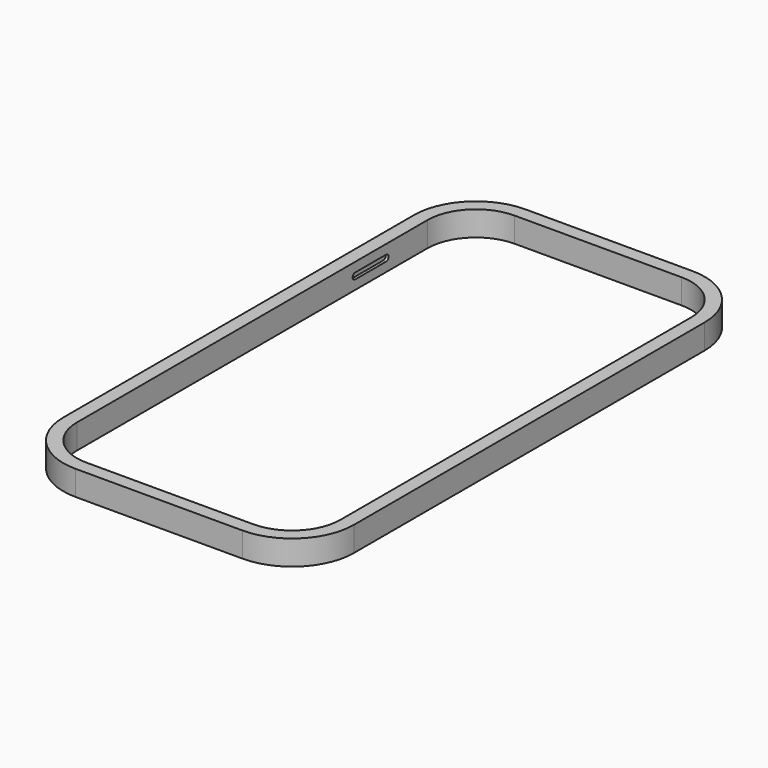
from build123d import *

# Parameters (mm, degrees)
F1_DEPTH = 7.33
F4_DEPTH = 2.55
F5_R     = 0.5
F6_DEPTH = 5
F7_DEPTH = 3.14


with BuildPart() as f1:
    # F0 (on Top) → F1 (new body)
    with BuildSketch(Plane.XY):
        with BuildLine():
            Line((-42.9700019847, 64.81), (-42.9700019847, 43.63))
            Line((-42.9700019847, 43.63), (-42.9700019847, -64.81))
            ThreePointArc((-42.9700019847, -64.81), (-37.6100554991, -77.7500554991), (-24.67, -83.1100019847))
            Line((-24.67, -83.1100019847), (24.67, -83.1100019847))
            ThreePointArc((24.67, -83.1100019847), (37.6100554991, -77.7500554991), (42.9700019847, -64.81))
            Line((42.9700019847, -64.81), (42.9700019847, 64.81))
            ThreePointArc((42.9700019847, 64.81), (37.6100554991, 77.7500554991), (24.67, 83.1100019847))
            Line((24.67, 83.1100019847), (-24.67, 83.1100019847))
            ThreePointArc((-24.67, 83.1100019847), (-37.6100554991, 77.7500554991), (-42.9700019847, 64.81))
        make_face()
        with BuildLine():
            ThreePointArc((-38.97, 64.81), (-34.781626971, 74.921626971), (-24.67, 79.11))
            Line((-24.67, 79.11), (-17.5395198166, 79.11))
            Line((-17.5395198166, 79.11), (24.67, 79.11))
            ThreePointArc((24.67, 79.11), (34.781626971, 74.921626971), (38.97, 64.81))
            Line((38.97, 64.81), (38.97, -64.81))
            ThreePointArc((38.97, -64.81), (34.781626971, -74.921626971), (24.67, -79.11))
            Line((24.67, -79.11), (-24.67, -79.11))
            ThreePointArc((-24.67, -79.11), (-34.781626971, -74.921626971), (-38.97, -64.81))
            Line((-38.97, -64.81), (-38.97, 43.63))
            Line((-38.97, 43.63), (-38.97, 64.81))
        make_face(mode=Mode.SUBTRACT)
    extrude(amount=F1_DEPTH)

    # F3 (on offset) → F4 (join)
    with BuildSketch(Plane(origin=(-42.9700019847, 0, 0), x_dir=(0, -1, 0), z_dir=(-1, 0, 0))):
        with BuildLine():
            Line((-49.506586045, 2.7456503123), (-43.7680147588, 2.7456503123))
            Line((-43.7680147588, 2.7456503123), (-38.0294434726, 2.7456503123))
            ThreePointArc((-38.0294434726, 2.7456503123), (-37.1250937849, 3.65), (-38.0294434726, 4.5543496877))
            Line((-38.0294434726, 4.5543496877), (-43.7680147588, 4.5543496877))
            Line((-43.7680147588, 4.5543496877), (-49.506586045, 4.5543496877))
            ThreePointArc((-49.506586045, 4.5543496877), (-50.4109357327, 3.65), (-49.506586045, 2.7456503123))
        make_face()
    extrude(amount=F4_DEPTH)

    # F5
    f5_edges = [f1.edges().sort_by_distance(p)[0] for p in [
        (-45.520002, 43.768015, 2.74565),
        (-45.520002, 43.768015, 4.55435),
        (-45.520002, 37.125094, 3.65),
        (-45.520002, 50.410936, 3.65),
    ]]
    fillet(f5_edges, radius=F5_R)

    # F3 (on offset) → F6 (cut)
    with BuildSketch(Plane(origin=(-42.9700019847, 0, 0), x_dir=(0, -1, 0), z_dir=(-1, 0, 0))):
        with BuildLine():
            Line((-49.506586045, 2.7456503123), (-43.7680147588, 2.7456503123))
            Line((-43.7680147588, 2.7456503123), (-38.0294434726, 2.7456503123))
            ThreePointArc((-38.0294434726, 2.7456503123), (-37.1250937849, 3.65), (-38.0294434726, 4.5543496877))
            Line((-38.0294434726, 4.5543496877), (-43.7680147588, 4.5543496877))
            Line((-43.7680147588, 4.5543496877), (-49.506586045, 4.5543496877))
            ThreePointArc((-49.506586045, 4.5543496877), (-50.4109357327, 3.65), (-49.506586045, 2.7456503123))
        make_face()
    extrude(amount=-F6_DEPTH, mode=Mode.SUBTRACT)


with BuildPart() as f7:
    # F7 (new): a face of the model
    f7_faces = [f1.part.faces().sort_by_distance(p)[0] for p in [
        (-42.9700019847, 43.7680147588, 3.65),
    ]]
    extrude(f7_faces, amount=F7_DEPTH)


solid = Compound([f1.part, f7.part])
